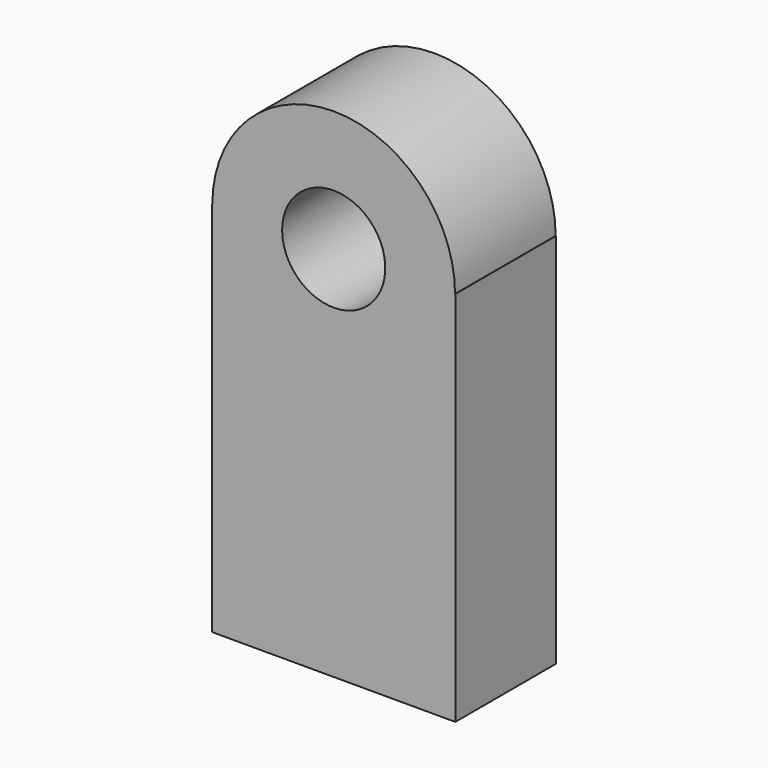
from build123d import *

# Parameters (mm, degrees)
F1_DEPTH = 31.75


with BuildPart() as f1:
    # F0 (on Front) → F1 (new body)
    with BuildSketch(Plane.XZ):
        with BuildLine():
            Line((-30.705059, -47.546379), (30.705059, -47.546379))
            Line((30.705059, -47.546379), (30.705059, 47.546379))
            Line((30.705059, 47.546379), (30.629403, 47.546379))
            Line((30.629403, 47.546379), (13.019142, 47.546379))
            ThreePointArc((13.019142, 47.546379), (0, 34.527237), (-13.019142, 47.546379))
            Line((-13.019142, 47.546379), (-30.629403, 47.546379))
            Line((-30.629403, 47.546379), (-30.705059, 47.546379))
            Line((-30.705059, 47.546379), (-30.705059, -47.546379))
        make_face()
        with BuildLine():
            Line((13.019142, 47.546379), (30.629403, 47.546379))
            ThreePointArc((30.629403, 47.546379), (0, 78.175783), (-30.629403, 47.546379))
            Line((-30.629403, 47.546379), (-13.019142, 47.546379))
            ThreePointArc((-13.019142, 47.546379), (0, 60.565521), (13.019142, 47.546379))
        make_face()
    extrude(amount=F1_DEPTH)


solid = f1.part
